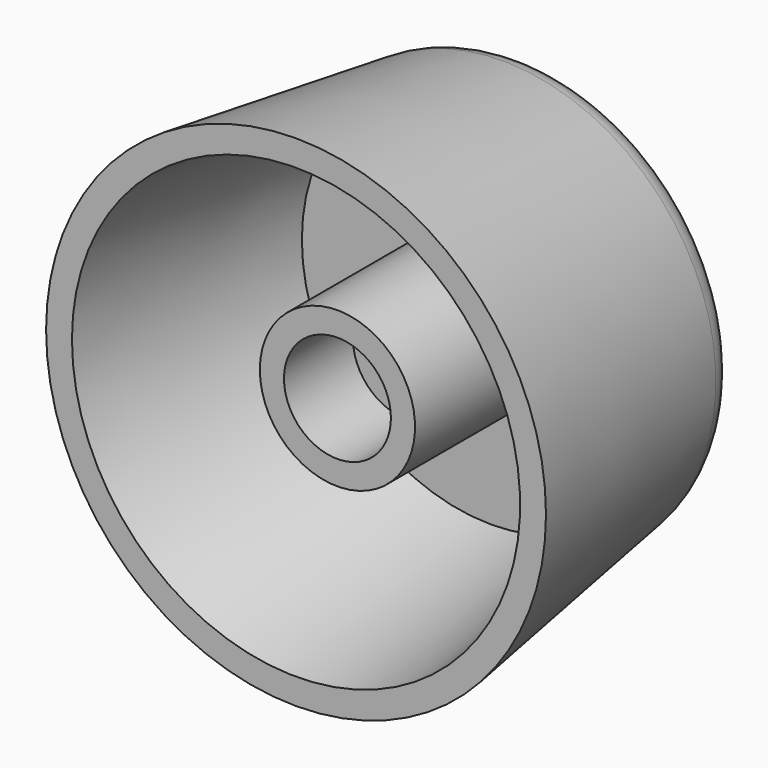
from build123d import *

# Parameters (mm, degrees)
F2_R     = 2
F4_DEPTH = 3
F5_DEPTH = 5


with BuildPart() as f1:
    # F0 (on Top) → F1 (revolve)
    with BuildSketch(Plane.XY):
        Polygon((0.6408938694, 3), (0.6408938694, 16.7043862722), (-11.46528483, 16.7043862722), (-13.8516243371, 0), (-12.3516243371, 0), (-10.3318675491, 14.1383057447), (-3.8579331173, 14.1383057447), (-3.8579331173, 3), align=None)
    revolve(axis=Axis((0.6408938694, 3.1900271702, 0), (0, -1, 0)))

    # F2
    f2_edges = [f1.edges().sort_by_distance(p)[0] for p in [
        (12.747073, 16.704386, 0),
    ]]
    fillet(f2_edges, radius=F2_R)

    # F3 (on face) → F4 (cut)
    with BuildSketch(Plane.XZ.offset(-3)):
        with BuildLine():
            ThreePointArc((2.2408938694, -2.6551836095), (3.3399677847, -1.5247950682), (3.7408938694, 0))
            ThreePointArc((3.7408938694, 0), (3.3399677847, 1.5247950682), (2.2408938694, 2.6551836095))
            Line((2.2408938694, 2.6551836095), (2.2408938694, -2.6551836095))
        make_face()
        with BuildLine():
            Line((2.2408938694, -2.6551836095), (2.2408938694, 2.6551836095))
            ThreePointArc((2.2408938694, 2.6551836095), (-2.4591061306, 0), (2.2408938694, -2.6551836095))
        make_face()
    extrude(amount=-F4_DEPTH, mode=Mode.SUBTRACT)

    # F3 (on face) → F5 (cut)
    with BuildSketch(Plane.XZ.offset(-3)):
        with BuildLine():
            Line((2.2408938694, -2.6551836095), (2.2408938694, 2.6551836095))
            ThreePointArc((2.2408938694, 2.6551836095), (-2.4591061306, 0), (2.2408938694, -2.6551836095))
        make_face()
    extrude(amount=-F5_DEPTH, mode=Mode.SUBTRACT)


solid = f1.part
